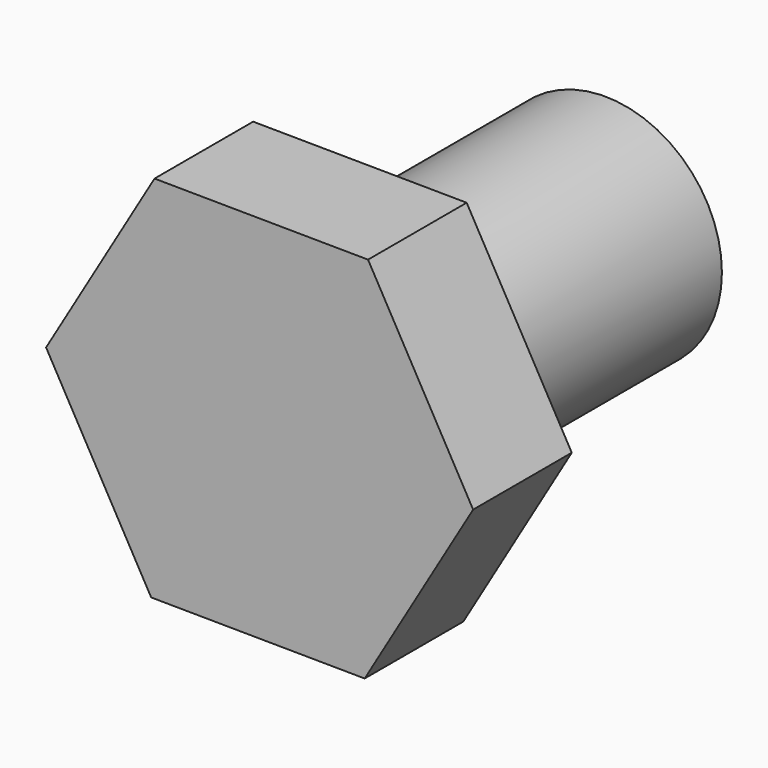
from build123d import *

# Parameters (mm, degrees)
F0_R     = 9.5
F1_DEPTH = 25
F3_DEPTH = 10


with BuildPart() as f1:
    # F0 (on Front) → F1 (new body)
    with BuildSketch(Plane.XZ):
        Circle(F0_R)
    extrude(amount=F1_DEPTH)

    # F2 (on face) → F3 (join)
    with BuildSketch(Plane.XZ.offset(25)):
        Polygon((8.524234, -15.077713), (17.3198, -0.156654), (8.795566, 14.92106), (-8.524234, 15.077713), (-17.3198, 0.156654), (-8.795566, -14.92106), align=None)
    extrude(amount=F3_DEPTH)


solid = f1.part
